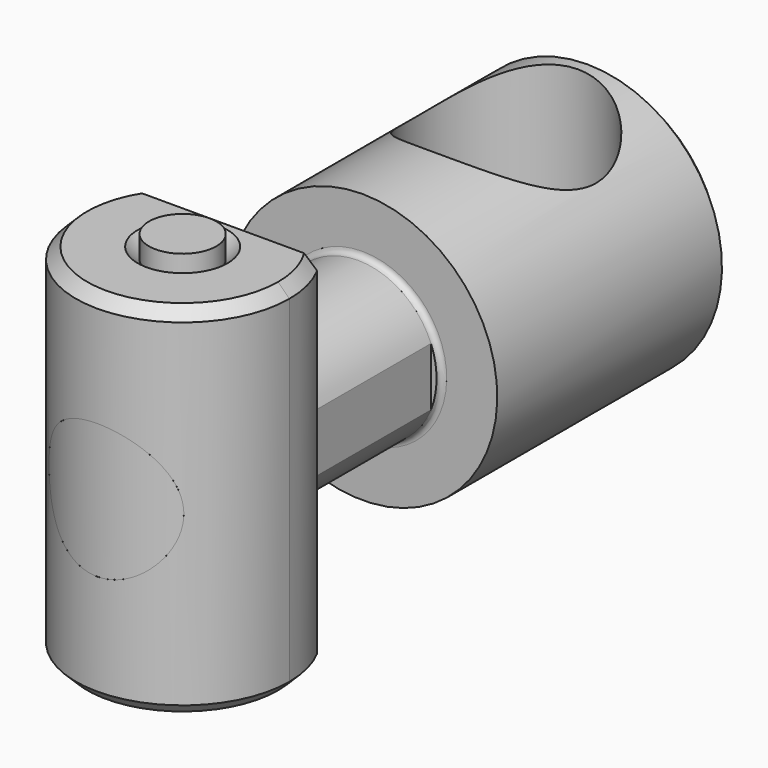
from build123d import *

# Parameters (mm, degrees)
F0_R      = 1.5
F1_DEPTH  = 8
F2_SIZE   = 0.5
F3_R      = 3
F4_DEPTH  = 7.001
F7_W      = 4.25
F7_H      = 7.25
F8_DEPTH  = 12.5
F9_R      = 1.5
F10_DEPTH = 12.5
F12_DEPTH = 12.5
F13_R     = 4
F14_DEPTH = 12.5
F15_SIZE  = 0.5
F16_R     = 1.5
F17_DEPTH = 8.5
F18_SIZE  = 0.5


with BuildPart() as f1:
    # F0 (on Top) → F1 (new body, symmetric)
    with BuildSketch(Plane.XY):
        with BuildLine():
            ThreePointArc((-4.1833001327, 2.25), (-1.1601345547, -4.6061467427), (4.75, 0))
            ThreePointArc((4.75, 0), (4.6061467427, 1.1601345547), (4.1833001327, 2.25))
            Line((4.1833001327, 2.25), (-4.1833001327, 2.25))
        make_face()
        Circle(F0_R, mode=Mode.SUBTRACT)
    extrude(amount=F1_DEPTH, both=True)

    # F2
    f2_edges = [f1.edges().sort_by_distance(p)[0] for p in [
        (0, -4.75, 8),
        (0, -4.75, -8),
    ]]
    chamfer(f2_edges, length=F2_SIZE)

    # F3 (on face) → F4 (cut, through all)
    with BuildSketch(Plane(origin=(0, 2.25, 0), x_dir=(-1, 0, 0), z_dir=(0, 1, 0))):
        Circle(F3_R)
    extrude(amount=-F4_DEPTH, mode=Mode.SUBTRACT)

    # F18
    f18_edges = [f1.edges().sort_by_distance(p)[0] for p in [
        (-1.5, 0, 8),
        (-1.5, 0, -8),
    ]]
    chamfer(f18_edges, length=F18_SIZE)


with BuildPart() as f6:
    # F5 (on Right) → F6 (revolve)
    with BuildSketch(Plane.YZ):
        with BuildLine():
            Line((-5, 3), (-5, 0))
            Line((-5, 0), (23, 0))
            Line((23, 0), (23, 6))
            Line((23, 6), (10, 6))
            Line((10, 6), (10, 3.75))
            ThreePointArc((10, 3.75), (9.9267766953, 3.5732233047), (9.75, 3.5))
            Line((9.75, 3.5), (2.5, 3.5))
            Line((2.5, 3.5), (2.5, 3.25))
            ThreePointArc((2.5, 3.25), (2.4267766953, 3.0732233047), (2.25, 3))
            Line((2.25, 3), (-5, 3))
        make_face()
    revolve(axis=Axis((0, 9, 0), (0, -1, 0)))

    # F7 (on Top) → F8 (cut, symmetric)
    with BuildSketch(Plane.XY):
        with Locations((-5.375, 6.125)):
            Rectangle(F7_W, F7_H)
        with Locations((5.375, 6.125)):
            Rectangle(F7_W, F7_H)
    extrude(amount=F8_DEPTH, both=True, mode=Mode.SUBTRACT)

    # F9 (on Top) → F10 (cut, symmetric)
    with BuildSketch(Plane.XY):
        Circle(F9_R)
    extrude(amount=F10_DEPTH, both=True, mode=Mode.SUBTRACT)

    # F11 (on Top) → F12 (cut, symmetric)
    with BuildSketch(Plane.XY):
        with BuildLine():
            ThreePointArc((3, -3.6827299657), (0, -4.75), (-3, -3.6827299657))
            Line((-3, -3.6827299657), (-3, -5.6827299657))
            Line((-3, -5.6827299657), (3, -5.6827299657))
            Line((3, -5.6827299657), (3, -3.6827299657))
        make_face()
    extrude(amount=F12_DEPTH, both=True, mode=Mode.SUBTRACT)

    # F13 (on Top) → F14 (cut, symmetric)
    with BuildSketch(Plane.XY):
        with Locations((0, 18)):
            Circle(F13_R)
    extrude(amount=F14_DEPTH, both=True, mode=Mode.SUBTRACT)

    # F15
    f15_edges = [f6.edges().sort_by_distance(p)[0] for p in [
        (0, 23, -6),
    ]]
    chamfer(f15_edges, length=F15_SIZE)


with BuildPart() as f17:
    # F16 (on Top) → F17 (new body, symmetric)
    with BuildSketch(Plane.XY):
        Circle(F16_R)
    extrude(amount=F17_DEPTH, both=True)


solid = Compound([f1.part, f6.part, f17.part])
